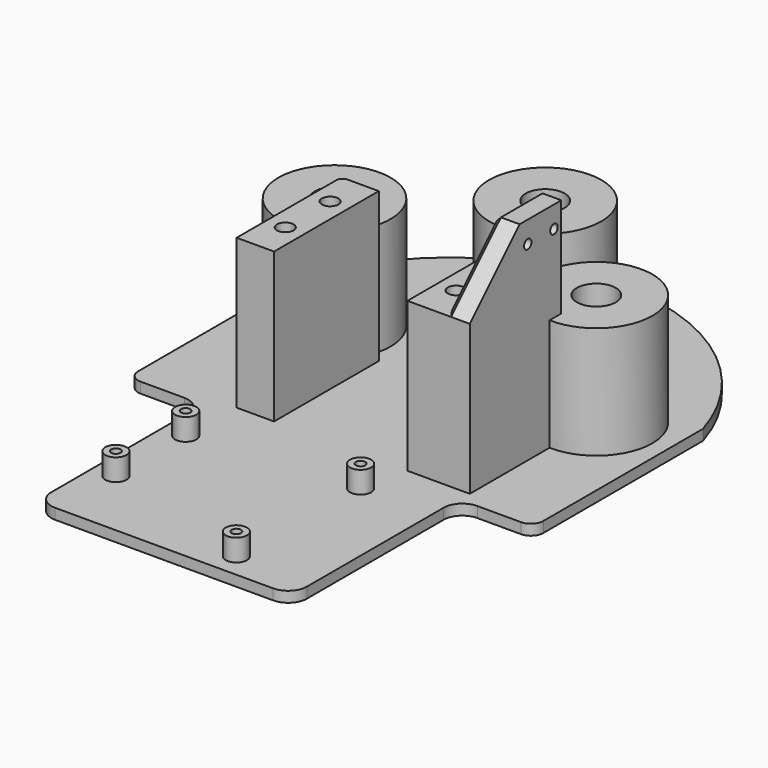
from build123d import *

# Parameters (mm, degrees)
PAD_DEPTH       = 3.4
FILLET_R        = 4
SKETCH001_R     = 18
SKETCH001_R_2   = 6.25
PAD001_DEPTH    = 36
SKETCH002_W     = 12
SKETCH002_H     = 42
SKETCH002_R     = 2.65
PAD002_DEPTH    = 48
FILLET002_R     = 2
SKETCH004_W     = 8
SKETCH004_H     = 36.680408
PAD010_DEPTH    = 68
CHAMFER_SIZE    = 20
CHAMFER001_SIZE = 2
SKETCH005_R     = 1.5
POCKET_DEPTH    = 10
SKETCH007_R     = 18
SKETCH007_R_2   = 6.25
PAD012_DEPTH    = 36
SKETCH008_W     = 82.003228
SKETCH008_H     = 66.82692
PAD013_DEPTH    = 3.4
SKETCH009_R     = 3.4
SKETCH009_R_2   = 1.5
PAD014_DEPTH    = 7
FILLET004_R     = 6


with BuildPart() as part:
    # Sketch → Pad (new body)
    with BuildSketch(Plane.XY):
        with BuildLine():
            Line((-65, 0), (-65, -60))
            Line((-65, -60), (65, -60))
            Line((65, -60), (65, 0))
            Line((65, 8), (65, 0))
            ThreePointArc((65, 8), (0, 56.025016), (-65, 8))
            Line((-65, 0), (-65, 8))
        make_face()
    extrude(amount=PAD_DEPTH)

    # Fillet
    fillet_edges = [part.edges().sort_by_distance(p)[0] for p in [
        (65, -60, 1.7),
        (-65, -60, 1.7),
    ]]
    fillet(fillet_edges, radius=FILLET_R)

    # Sketch001 (on Face8 of Pad) → Pad001 (join)
    with BuildSketch(Plane.XY.offset(3.4)):
        with Locations((42, -6)):
            Circle(SKETCH001_R)
        with Locations((42, -6)):
            Circle(SKETCH001_R_2, mode=Mode.SUBTRACT)
    pad001 = extrude(amount=PAD001_DEPTH)

    # Mirrored: Pad001 across YZ
    add(pad001.mirror(Plane.YZ))

    # Sketch002 (on Face5 of Mirrored) → Pad002 (join)
    with BuildSketch(Plane.XY.offset(3.4)):
        with Locations((-27.4, -35)):
            Rectangle(SKETCH002_W, SKETCH002_H)
        with Locations((-27.4, -26)):
            Circle(SKETCH002_R, mode=Mode.SUBTRACT)
        with Locations((-27.4, -44)):
            Circle(SKETCH002_R, mode=Mode.SUBTRACT)
    pad002 = extrude(amount=PAD002_DEPTH)

    # Mirrored001: Pad002 across Sketch002 V_Axis
    add(pad002.mirror(Plane(origin=(0, 0, 3.4), x_dir=(0, 0, 1), z_dir=(1, 0, 0))))

    # Fillet002
    fillet002_edges = [part.edges().sort_by_distance(p)[0] for p in [
        (-33.4, -14, 45.4),
        (33.4, -14, 45.4),
    ]]
    fillet(fillet002_edges, radius=FILLET002_R)

    # Sketch004 (on Face6 of Fillet002) → Pad010 (join)
    with BuildSketch(Plane.XY.offset(3.4)):
        with Locations((37.4, -37.659796)):
            Rectangle(SKETCH004_W, SKETCH004_H)
    extrude(amount=PAD010_DEPTH)

    # Chamfer
    chamfer_edges = [part.edges().sort_by_distance(p)[0] for p in [
        (37.4, -56, 71.4),
    ]]
    chamfer(chamfer_edges, length=CHAMFER_SIZE)

    # Chamfer001
    chamfer001_edges = [part.edges().sort_by_distance(p)[0] for p in [
        (33.4, -46, 61.4),
        (33.4, -27.659796, 71.4),
    ]]
    chamfer(chamfer001_edges, length=CHAMFER001_SIZE)

    # Sketch005 (on Face4 of Chamfer001) → Pocket (cut)
    with BuildSketch(Plane.YZ.offset(41.4)):
        with Locations((-32.7462, 64.451439)):
            Circle(SKETCH005_R)
        with Locations((-22.2462, 64.451439)):
            Circle(SKETCH005_R)
    extrude(amount=-POCKET_DEPTH, mode=Mode.SUBTRACT)

    # Sketch007 (on Face6 of Pocket) → Pad012 (join)
    with BuildSketch(Plane.XY.offset(3.4)):
        with Locations((0, 26)):
            Circle(SKETCH007_R)
        with Locations((0, 26)):
            Circle(SKETCH007_R_2, mode=Mode.SUBTRACT)
    extrude(amount=PAD012_DEPTH)

    # Sketch008 → Pad013 (join)
    with BuildSketch(Plane.XY):
        with Locations((0, -93.41346)):
            Rectangle(SKETCH008_W, SKETCH008_H)
    extrude(amount=PAD013_DEPTH)

    # Sketch009 (on Face21 of Pad013) → Pad014 (join)
    with BuildSketch(Plane.XY.offset(3.4)):
        with Locations((16.9, -119)):
            Circle(SKETCH009_R)
        with Locations((16.9, -119)):
            Circle(SKETCH009_R_2, mode=Mode.SUBTRACT)
        with Locations((-33.9, -103.8)):
            Circle(SKETCH009_R)
        with Locations((-33.9, -103.8)):
            Circle(SKETCH009_R_2, mode=Mode.SUBTRACT)
        with Locations((-33.9, -75.8)):
            Circle(SKETCH009_R)
        with Locations((-33.9, -75.8)):
            Circle(SKETCH009_R_2, mode=Mode.SUBTRACT)
        with Locations((18.2, -70.8)):
            Circle(SKETCH009_R)
        with Locations((18.2, -70.8)):
            Circle(SKETCH009_R_2, mode=Mode.SUBTRACT)
    extrude(amount=PAD014_DEPTH)

    # Fillet004
    fillet004_edges = [part.edges().sort_by_distance(p)[0] for p in [
        (-41.001614, -60, 1.7),
        (41.001614, -60, 1.7),
        (-41.001614, -126.82692, 1.7),
        (41.001614, -126.82692, 1.7),
    ]]
    fillet(fillet004_edges, radius=FILLET004_R)


solid = part.part
